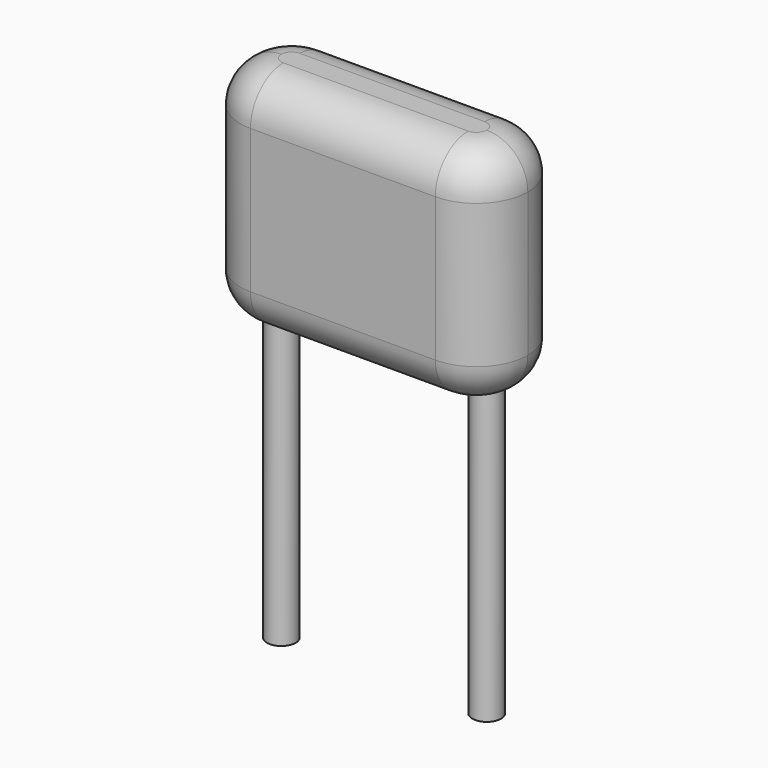
from build123d import *

# Parameters (mm, degrees)
SKETCH_R     = 0.35
PAD_DEPTH    = 8
PAD002_DEPTH = 5.5
FILLET_R     = 1
FILLET001_R  = 1


with BuildPart() as pad:
    # Sketch → Pad (new body)
    with BuildSketch(Plane.XY.offset(4)):
        Circle(SKETCH_R)
        with Locations((5, 0)):
            Circle(SKETCH_R)
    extrude(amount=-PAD_DEPTH)


with BuildPart() as fillet001:
    # Sketch003 → Pad002 (new body)
    with BuildSketch(Plane.XY.offset(3)):
        with BuildLine():
            Line((0.25, 1.25), (4.75, 1.25))
            ThreePointArc((6, 0), (5.633883, 0.883883), (4.75, 1.25))
            ThreePointArc((4.75, -1.25), (5.633883, -0.883883), (6, 0))
            Line((4.75, -1.25), (0.25, -1.25))
            ThreePointArc((-1, 0), (-0.633883, -0.883883), (0.25, -1.25))
            ThreePointArc((0.25, 1.25), (-0.633883, 0.883883), (-1, 0))
        make_face()
    extrude(amount=PAD002_DEPTH)

    # Fillet
    fillet_edges = [fillet001.edges().sort_by_distance(p)[0] for p in [
        (2.5, 1.25, 8.5),
        (-0.633883, 0.883883, 8.5),
        (-0.633883, -0.883883, 8.5),
        (2.5, -1.25, 8.5),
        (5.633883, -0.883883, 8.5),
        (5.633883, 0.883883, 8.5),
    ]]
    fillet(fillet_edges, radius=FILLET_R)

    # Fillet001
    fillet001_edges = [fillet001.edges().sort_by_distance(p)[0] for p in [
        (5.633883, -0.883883, 3),
        (5.633883, 0.883883, 3),
        (2.5, 1.25, 3),
        (2.5, -1.25, 3),
        (-0.633883, -0.883883, 3),
        (-0.633883, 0.883883, 3),
    ]]
    fillet(fillet001_edges, radius=FILLET001_R)


solid = Compound([pad.part, fillet001.part])
